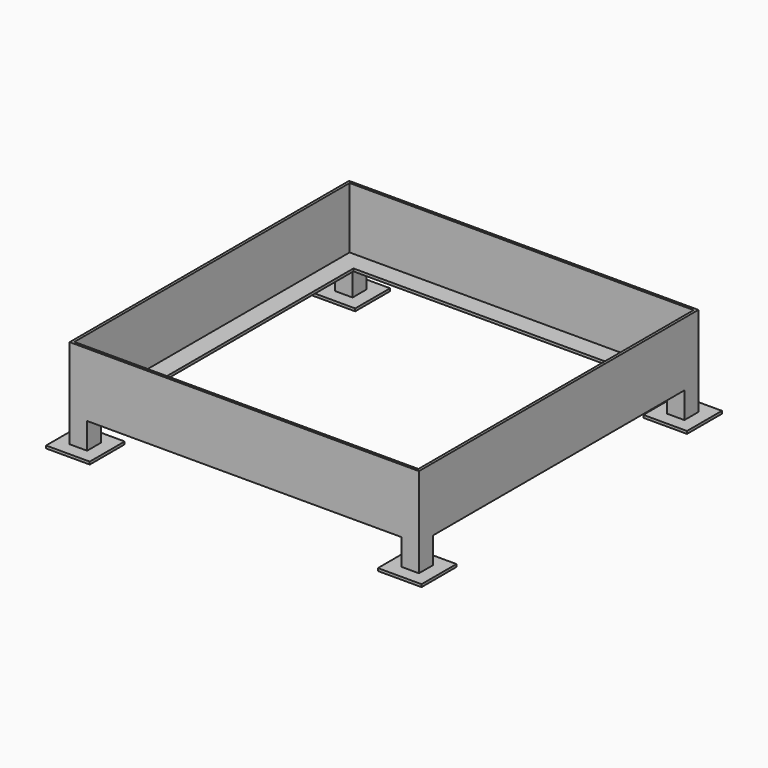
from build123d import *

# Parameters (mm, degrees)
F0_W     = 400
F0_H     = 400
F0_W_2   = 350
F0_H_2   = 350
F1_DEPTH = 3
F2_W     = 400
F2_H     = 400
F2_W_2   = 394
F2_H_2   = 394
F3_DEPTH = 70
F4_W     = 20
F4_H     = 20
F5_DEPTH = 30
F6_W     = 50
F6_H     = 50
F7_DEPTH = 3


with BuildPart() as f1:
    # F0 (on Top) → F1 (new body)
    with BuildSketch(Plane.XY):
        Rectangle(F0_W, F0_H)
        Rectangle(F0_W_2, F0_H_2, mode=Mode.SUBTRACT)
    extrude(amount=F1_DEPTH)

    # F2 (on face) → F3 (join)
    with BuildSketch(Plane.XY.offset(3)):
        Rectangle(F2_W, F2_H)
        Rectangle(F2_W_2, F2_H_2, mode=Mode.SUBTRACT)
    extrude(amount=F3_DEPTH)

    # F4 (on face) → F5 (join)
    with BuildSketch(Plane(origin=(0, 0, 0), x_dir=(1, 0, 0), z_dir=(0, 0, -1))):
        with Locations((-190, 190)):
            Rectangle(F4_W, F4_H)
        with Locations((190, 190)):
            Rectangle(F4_W, F4_H)
        with Locations((-190, -190)):
            Rectangle(F4_W, F4_H)
        with Locations((190, -190)):
            Rectangle(F4_W, F4_H)
    extrude(amount=F5_DEPTH)

    # F6 (on face) → F7 (join)
    with BuildSketch(Plane(origin=(0, 0, -30), x_dir=(1, 0, 0), z_dir=(0, 0, -1))):
        with Locations((-190, 190)):
            Rectangle(F6_W, F6_H)
        with Locations((190, 190)):
            Rectangle(F6_W, F6_H)
        with Locations((190, -190)):
            Rectangle(F6_W, F6_H)
        with Locations((-190, -190)):
            Rectangle(F6_W, F6_H)
    extrude(amount=F7_DEPTH)


solid = f1.part
